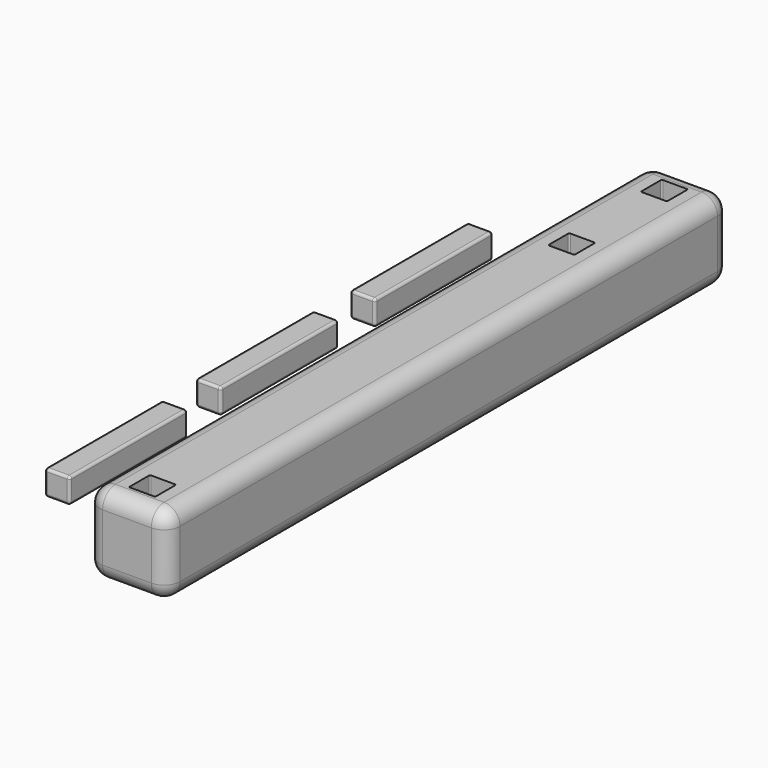
from build123d import *

# Parameters (mm, degrees)
F1_DEPTH = 69.85
F3_DEPTH = 7.62
F5_DEPTH = 14.605
F6_R     = 0.508
F6_2_R   = 0.508
F6_3_R   = 0.508
F7_R     = 3.175


with BuildPart() as f1:
    # F0 (on Front) → F1 (new body, symmetric)
    with BuildSketch(Plane.XZ):
        with BuildLine():
            Line((-4.826, 0), (4.826, 0))
            ThreePointArc((4.826, 0), (7.0710640303, 0.9299359697), (8.001, 3.175))
            Line((8.001, 3.175), (8.001, 12.827))
            ThreePointArc((8.001, 12.827), (7.0710640303, 15.0720640303), (4.826, 16.002))
            Line((4.826, 16.002), (-4.826, 16.002))
            ThreePointArc((-4.826, 16.002), (-7.0710640303, 15.0720640303), (-8.001, 12.827))
            Line((-8.001, 12.827), (-8.001, 3.175))
            ThreePointArc((-8.001, 3.175), (-7.0710640303, 0.9299359697), (-4.826, 0))
        make_face()
    extrude(amount=F1_DEPTH, both=True)

    # F2 (on face) → F3 (cut)
    with BuildSketch(Plane.XY.offset(16.002)):
        with BuildLine():
            ThreePointArc((2.6035, 65.8495), (2.5291051224, 66.0291051224), (2.3495, 66.1035))
            Line((2.3495, 66.1035), (0, 66.1035))
            Line((0, 66.1035), (-2.3495, 66.1035))
            ThreePointArc((-2.3495, 66.1035), (-2.5291051224, 66.0291051224), (-2.6035, 65.8495))
            Line((-2.6035, 65.8495), (-2.6035, 61.1505))
            ThreePointArc((-2.6035, 61.1505), (-2.5291051224, 60.9708948776), (-2.3495, 60.8965))
            Line((-2.3495, 60.8965), (0, 60.8965))
            Line((0, 60.8965), (2.3495, 60.8965))
            ThreePointArc((2.3495, 60.8965), (2.5291051224, 60.9708948776), (2.6035, 61.1505))
            Line((2.6035, 61.1505), (2.6035, 65.8495))
        make_face()
        with BuildLine():
            Line((2.3495000827, 43.1165), (0, 43.1165))
            Line((0, 43.1165), (-2.3494999173, 43.1165))
            ThreePointArc((-2.3494999173, 43.1165), (-2.5291050397, 43.0421051224), (-2.6034999173, 42.8625))
            Line((-2.6034999173, 42.8625), (-2.6034999173, 38.1635))
            ThreePointArc((-2.6034999173, 38.1635), (-2.5291050397, 37.9838948776), (-2.3494999173, 37.9095))
            Line((-2.3494999173, 37.9095), (2.3495000827, 37.9095))
            ThreePointArc((2.3495000827, 37.9095), (2.5291052051, 37.9838948776), (2.6035000827, 38.1635))
            Line((2.6035000827, 38.1635), (2.6035000827, 42.8625))
            ThreePointArc((2.6035000827, 42.8625), (2.5291052051, 43.0421051224), (2.3495000827, 43.1165))
        make_face()
        with BuildLine():
            ThreePointArc((2.6035, -61.1505), (2.5291051224, -60.9708948776), (2.3495, -60.8965))
            Line((2.3495, -60.8965), (-2.3495, -60.8965))
            ThreePointArc((-2.3495, -60.8965), (-2.5291051224, -60.9708948776), (-2.6035, -61.1505))
            Line((-2.6035, -61.1505), (-2.6035, -65.8495))
            ThreePointArc((-2.6035, -65.8495), (-2.5291051224, -66.0291051224), (-2.3495, -66.1035))
            Line((-2.3495, -66.1035), (0, -66.1035))
            Line((0, -66.1035), (2.3495, -66.1035))
            ThreePointArc((2.3495, -66.1035), (2.5291051224, -66.0291051224), (2.6035, -65.8495))
            Line((2.6035, -65.8495), (2.6035, -61.1505))
        make_face()
    extrude(amount=-F3_DEPTH, mode=Mode.SUBTRACT)

    # F7
    f7_edges = [f1.edges().sort_by_distance(p)[0] for p in [
        (-8.001, 69.85, 8.001),
        (-7.071064, 69.85, 0.929936),
        (0, 69.85, 0),
        (7.071064, 69.85, 0.929936),
        (8.001, 69.85, 8.001),
        (7.071064, 69.85, 15.072064),
        (0, 69.85, 16.002),
        (-7.071064, 69.85, 15.072064),
        (-8.001, -69.85, 8.001),
        (-7.071064, -69.85, 0.929936),
        (0, -69.85, 0),
        (7.071064, -69.85, 0.929936),
        (8.001, -69.85, 8.001),
        (7.071064, -69.85, 15.072064),
        (0, -69.85, 16.002),
        (-7.071064, -69.85, 15.072064),
    ]]
    fillet(f7_edges, radius=F7_R)


with BuildPart() as f5:
    # F4 (on Front) → F5 (new body, symmetric)
    with BuildSketch(Plane.XZ):
        with BuildLine():
            Line((-26.0799631188, 4.953), (-30.0169631188, 4.953))
            ThreePointArc((-30.0169631188, 4.953), (-30.3761733636, 4.8042102448), (-30.5249631188, 4.445))
            Line((-30.5249631188, 4.445), (-30.5249631188, 0.508))
            ThreePointArc((-30.5249631188, 0.508), (-30.3761733636, 0.1487897552), (-30.0169631188, 0))
            Line((-30.0169631188, 0), (-26.0799631188, 0))
            ThreePointArc((-26.0799631188, 0), (-25.7207528739, 0.1487897552), (-25.5719631188, 0.508))
            Line((-25.5719631188, 0.508), (-25.5719631188, 4.445))
            ThreePointArc((-25.5719631188, 4.445), (-25.7207528739, 4.8042102448), (-26.0799631188, 4.953))
        make_face()
    extrude(amount=F5_DEPTH, both=True)

    # F6#2
    f6_2_edges = [f5.edges().sort_by_distance(p)[0] for p in [
        (-28.048463, -14.605, 4.953),
        (-30.376173, -14.605, 4.80421),
        (-30.524963, -14.605, 2.4765),
        (-30.376173, -14.605, 0.14879),
        (-28.048463, -14.605, 0),
        (-25.720753, -14.605, 0.14879),
        (-25.571963, -14.605, 2.4765),
        (-25.720753, -14.605, 4.80421),
        (-28.048463, 14.605, 4.953),
        (-30.376173, 14.605, 4.80421),
        (-30.524963, 14.605, 2.4765),
        (-30.376173, 14.605, 0.14879),
        (-28.048463, 14.605, 0),
        (-25.720753, 14.605, 0.14879),
        (-25.571963, 14.605, 2.4765),
        (-25.720753, 14.605, 4.80421),
    ]]
    fillet(f6_2_edges, radius=F6_2_R)


with BuildPart() as f5b:
    # F4 (on Front) → F5, piece 2 (new body, symmetric)
    with BuildSketch(Plane.XZ):
        with BuildLine():
            Line((-11.9575668055, 4.953), (-15.8945668055, 4.953))
            ThreePointArc((-15.8945668055, 4.953), (-16.2537770503, 4.8042102448), (-16.4025668055, 4.445))
            Line((-16.4025668055, 4.445), (-16.4025668055, 0.508))
            ThreePointArc((-16.4025668055, 0.508), (-16.2537770503, 0.1487897552), (-15.8945668055, 0))
            Line((-15.8945668055, 0), (-11.9575668055, 0))
            ThreePointArc((-11.9575668055, 0), (-11.5983565606, 0.1487897552), (-11.4495668055, 0.508))
            Line((-11.4495668055, 0.508), (-11.4495668055, 4.445))
            ThreePointArc((-11.4495668055, 4.445), (-11.5983565606, 4.8042102448), (-11.9575668055, 4.953))
        make_face()
    extrude(amount=F5_DEPTH, both=True)

    # F6#3
    f6_3_edges = [f5b.edges().sort_by_distance(p)[0] for p in [
        (-11.598357, -14.605, 4.80421),
        (-13.926067, -14.605, 4.953),
        (-16.253777, -14.605, 4.80421),
        (-16.402567, -14.605, 2.4765),
        (-16.253777, -14.605, 0.14879),
        (-13.926067, -14.605, 0),
        (-11.598357, -14.605, 0.14879),
        (-11.449567, -14.605, 2.4765),
        (-11.598357, 14.605, 4.80421),
        (-13.926067, 14.605, 4.953),
        (-16.253777, 14.605, 4.80421),
        (-16.402567, 14.605, 2.4765),
        (-16.253777, 14.605, 0.14879),
        (-13.926067, 14.605, 0),
        (-11.598357, 14.605, 0.14879),
        (-11.449567, 14.605, 2.4765),
    ]]
    fillet(f6_3_edges, radius=F6_3_R)


with BuildPart() as f5c:
    # F4 (on Front) → F5, piece 3 (new body, symmetric)
    with BuildSketch(Plane.XZ):
        with BuildLine():
            Line((-39.5652368593, 4.953), (-43.5022368593, 4.953))
            ThreePointArc((-43.5022368593, 4.953), (-43.8614471042, 4.8042102448), (-44.0102368593, 4.445))
            Line((-44.0102368593, 4.445), (-44.0102368593, 0.508))
            ThreePointArc((-44.0102368593, 0.508), (-43.8614471042, 0.1487897552), (-43.5022368593, 0))
            Line((-43.5022368593, 0), (-39.5652368593, 0))
            ThreePointArc((-39.5652368593, 0), (-39.2060266145, 0.1487897552), (-39.0572368593, 0.508))
            Line((-39.0572368593, 0.508), (-39.0572368593, 4.445))
            ThreePointArc((-39.0572368593, 4.445), (-39.2060266145, 4.8042102448), (-39.5652368593, 4.953))
        make_face()
    extrude(amount=F5_DEPTH, both=True)

    # F6
    f6_edges = [f5c.edges().sort_by_distance(p)[0] for p in [
        (-39.206027, -14.605, 4.80421),
        (-41.533737, -14.605, 4.953),
        (-43.861447, -14.605, 4.80421),
        (-44.010237, -14.605, 2.4765),
        (-43.861447, -14.605, 0.14879),
        (-41.533737, -14.605, 0),
        (-39.206027, -14.605, 0.14879),
        (-39.057237, -14.605, 2.4765),
        (-39.206027, 14.605, 4.80421),
        (-41.533737, 14.605, 4.953),
        (-43.861447, 14.605, 4.80421),
        (-44.010237, 14.605, 2.4765),
        (-43.861447, 14.605, 0.14879),
        (-41.533737, 14.605, 0),
        (-39.206027, 14.605, 0.14879),
        (-39.057237, 14.605, 2.4765),
    ]]
    fillet(f6_edges, radius=F6_R)


with BuildPart() as f5b_1:
    # F8: moved
    add(f5b.part.moved(Location((-13.97, 38.1, 0))))


with BuildPart() as f5c_1:
    # F9: moved
    add(f5c.part.moved(Location((13.97, -38.1, 0))))


solid = Compound([f1.part, f5.part, f5b_1.part, f5c_1.part])
